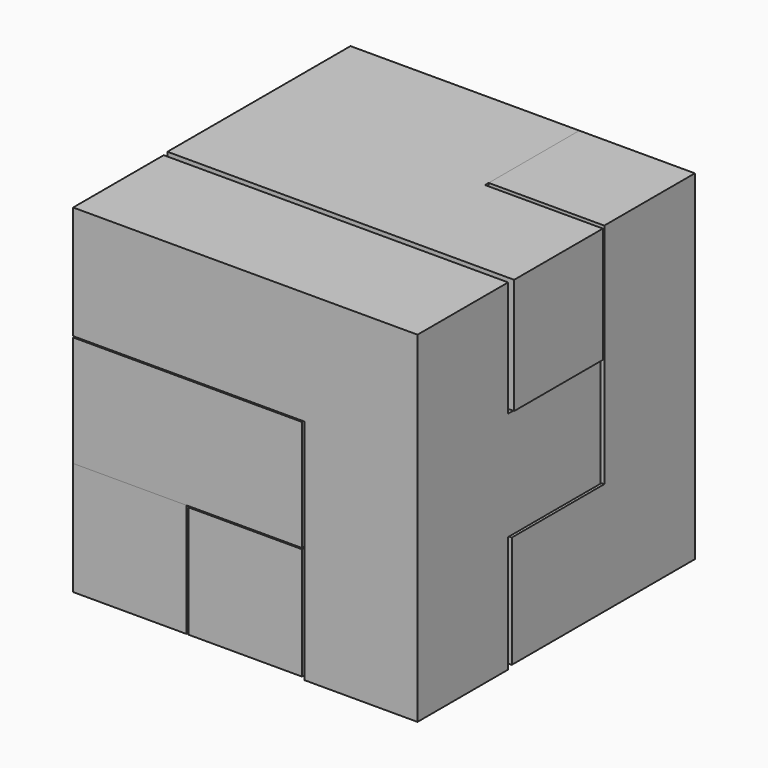
from build123d import *

# Parameters (mm, degrees)
F0_W      = 25.146
F0_H      = 25.146
F1_DEPTH  = 12.192
F3_DEPTH  = 12.446
F4_W      = 12.573
F4_H      = 12.446
F5_DEPTH  = 12.446
F7_DEPTH  = 12.7
F8_W      = 12.446
F8_H      = 12.446
F9_DEPTH  = 11.938
F11_DEPTH = 12.7
F12_W     = 12.573
F12_H     = 12.319
F13_DEPTH = 25.146
F14_W     = 12.446
F14_H     = 12.319
F15_DEPTH = 12.954
F17_DEPTH = 12.446
F18_W     = 12.446
F18_H     = 12.446
F19_DEPTH = 25.4


with BuildPart() as f1:
    # F0 (on Top) → F1 (new body)
    with BuildSketch(Plane.XY):
        with Locations((12.573, 12.573)):
            Rectangle(F0_W, F0_H)
    extrude(amount=F1_DEPTH)


with BuildPart() as f3:
    # F2 (on Top) → F3 (new body)
    with BuildSketch(Plane.XY):
        Polygon((0, 38.1), (0, 0), (12.446, 0), (12.446, 25.654), (25.146, 25.654), (25.146, 38.1), align=None)
    extrude(amount=-F3_DEPTH)

    # F4 (on face) → F5 (join)
    with BuildSketch(Plane.XY):
        with Locations((18.8595, 31.877)):
            Rectangle(F4_W, F4_H)
    extrude(amount=F5_DEPTH)


with BuildPart() as f7:
    # F6 (on face) → F7 (new body)
    with BuildSketch(Plane.XY.offset(12.192)):
        Polygon((25.146, 38.1), (0, 38.1), (0, 25.146), (0, 12.954), (12.954, 12.954), (38.1, 12.954), (38.1, 25.146), (25.146, 25.146), align=None)
    extrude(amount=F7_DEPTH)

    # F8 (on face) → F9 (join)
    with BuildSketch(Plane(origin=(0, 0, 12.192), x_dir=(1, 0, 0), z_dir=(0, 0, -1))):
        with Locations((6.223, -31.877)):
            Rectangle(F8_W, F8_H)
    extrude(amount=F9_DEPTH)


with BuildPart() as f11:
    # F10 (on face) → F11 (new body)
    with BuildSketch(Plane.YZ.offset(25.146)):
        Polygon((12.954, -12.446), (38.1, -12.446), (38.1, 24.892), (25.654, 24.892), (25.654, -0.127), (12.954, -0.127), align=None)
    extrude(amount=F11_DEPTH)

    # F12 (on face) → F13 (join)
    with BuildSketch(Plane.YZ.offset(37.846)):
        with Locations((19.2405, -6.2865)):
            Rectangle(F12_W, F12_H)
    extrude(amount=-F13_DEPTH)

    # F14 (on face) → F15 (join)
    with BuildSketch(Plane.XZ.offset(-12.954)):
        with Locations((18.923, -6.2865)):
            Rectangle(F14_W, F14_H)
    extrude(amount=F15_DEPTH)


with BuildPart() as f17:
    # F16 (on face) → F17 (new body)
    with BuildSketch(Plane.YZ.offset(37.846)):
        Polygon((0, 24.765), (0, -12.7), (12.446, -12.7), (12.446, 0.127), (25.146, 0.127), (25.146, 12.065), (12.446, 12.065), (12.446, 24.765), align=None)
    extrude(amount=-F17_DEPTH)

    # F18 (on face) → F19 (join)
    with BuildSketch(Plane(origin=(25.4, 0, 0), x_dir=(0, -1, 0), z_dir=(-1, 0, 0))):
        with Locations((-6.223, 18.542)):
            Rectangle(F18_W, F18_H)
    extrude(amount=F19_DEPTH)


solid = Compound([f1.part, f3.part, f7.part, f11.part, f17.part])
